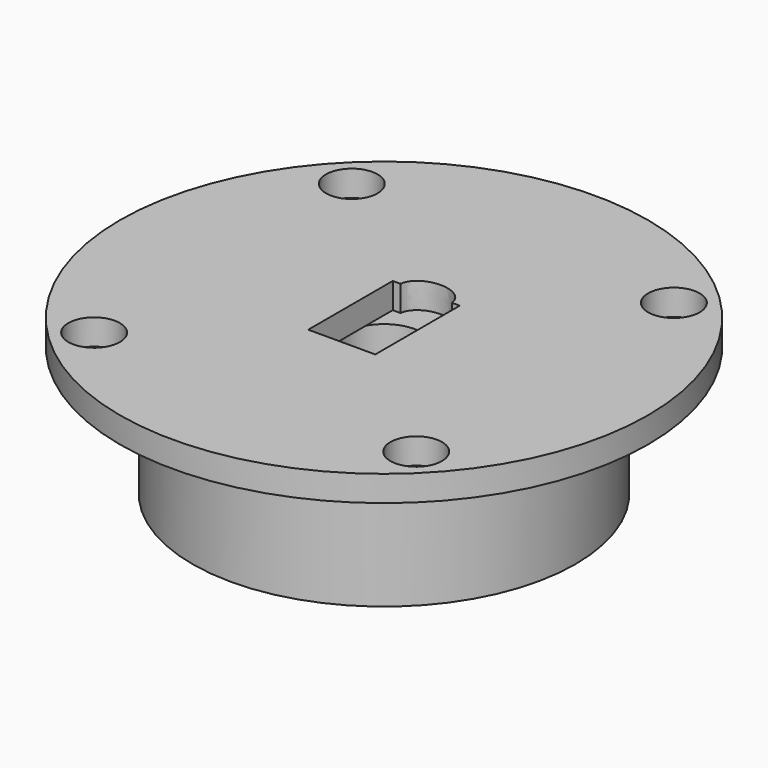
from build123d import *

# Parameters (mm, degrees)
F0_R      = 20.5
F1_DEPTH  = 2
F2_R      = 14.875
F3_DEPTH  = 10
F4_R      = 2
F5_DEPTH  = 2
F6_R      = 3
F7_DEPTH  = 10
F8_W      = 5.2
F8_H      = 8.2
F9_DEPTH  = 2
F11_DEPTH = 2


with BuildPart() as f1:
    # F0 (on Top) → F1 (new body)
    with BuildSketch(Plane.XY):
        Circle(F0_R)
    extrude(amount=F1_DEPTH)

    # F2 (on Top) → F3 (join)
    with BuildSketch(Plane.XY):
        Circle(F2_R)
    extrude(amount=-F3_DEPTH)

    # F4 (on Top) → F5 (cut)
    with BuildSketch(Plane.XY):
        with Locations((-12.5, 12.5)):
            Circle(F4_R)
        with Locations((12.5, 12.5)):
            Circle(F4_R)
        with Locations((12.5, -12.5)):
            Circle(F4_R)
        with Locations((-12.5, -12.5)):
            Circle(F4_R)
    extrude(amount=F5_DEPTH, mode=Mode.SUBTRACT)

    # F6 (on Top) → F7 (cut)
    with BuildSketch(Plane.XY):
        Circle(F6_R)
    extrude(amount=-F7_DEPTH, mode=Mode.SUBTRACT)

    # F8 (on Top) → F9 (cut)
    with BuildSketch(Plane.XY):
        Rectangle(F8_W, F8_H)
    extrude(amount=F9_DEPTH, mode=Mode.SUBTRACT)

    # F10 (on Top) → F11 (cut)
    with BuildSketch(Plane.XY):
        with BuildLine():
            add(Edge.make_bspline(
                [(2, 4), (2, 6.598076), (-1, 5.299038), (-4, 4), (-1, 2.700962), (2, 1.401924), (2, 4)],
                knots=[0, 0, 0, 2.094395, 2.094395, 4.18879, 4.18879, 6.283185, 6.283185, 6.283185], degree=2, weights=[1, 0.5, 1, 0.5, 1, 0.5, 1]))
        make_face()
    extrude(amount=F11_DEPTH, mode=Mode.SUBTRACT)


solid = f1.part
